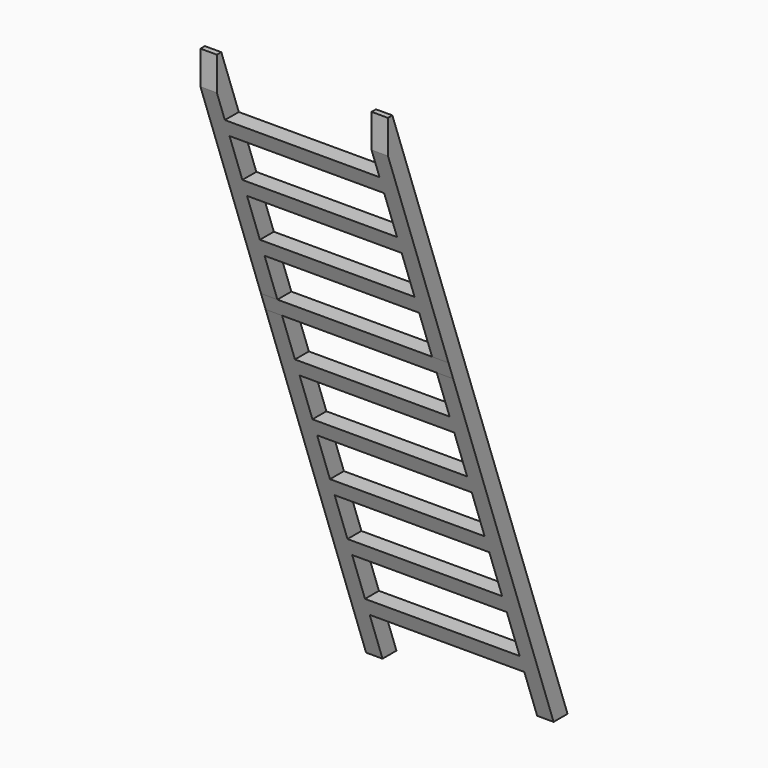
from build123d import *

# Parameters (mm, degrees)
F1_DEPTH = 48
F3_DEPTH = 452


with BuildPart() as f1:
    # F0 (on Right) → F1 (new body)
    with BuildSketch(Plane.YZ):
        Polygon((538.1385763868, 312), (585.0655876551, 180), (636.0086209978, 180), (589.0816097296, 312), align=None)
        Polygon((457.0828296508, 540), (474.1471973847, 492), (525.0902307274, 492), (508.0258629935, 540), align=None)
        Polygon((265.1086926442, 1080), (282.1730603782, 1032), (333.1160937209, 1032), (316.051725987, 1080), align=None)
        Polygon((90.1989233716, 1572), (137.1259346399, 1440), (188.0689679826, 1440), (141.1419567144, 1572), align=None)
        Polygon((346.1644393803, 852), (393.0914506486, 720), (444.0344839913, 720), (397.1074727231, 852), align=None)
        Polygon((73.1345556377, 1620), (90.1989233716, 1572), (141.1419567144, 1572), (124.0775889805, 1620), align=None)
        Polygon((474.1471973847, 492), (521.0742086529, 360), (572.0172419957, 360), (525.0902307274, 492), align=None)
        Polygon((410.1558183825, 672), (457.0828296508, 540), (508.0258629935, 540), (461.0988517252, 672), align=None)
        Polygon((282.1730603782, 1032), (329.1000716464, 900), (380.0431049891, 900), (333.1160937209, 1032), align=None)
        Polygon((43.9829274256, 1702), (73.1345556377, 1620), (124.0775889805, 1620), (60.0862099783, 1800), (43.9829274256, 1800), align=None)
        Polygon((585.0655876551, 180), (602.129955389, 132), (653.0729887317, 132), (636.0086209978, 180), align=None)
        Polygon((393.0914506486, 720), (410.1558183825, 672), (461.0988517252, 672), (444.0344839913, 720), align=None)
        Polygon((602.129955389, 132), (649.0569666573, 0), (700, 0), (653.0729887317, 132), align=None)
        Polygon((201.1173136421, 1260), (218.181681376, 1212), (269.1247147187, 1212), (252.0603469848, 1260), align=None)
        Polygon((218.181681376, 1212), (265.1086926442, 1080), (316.051725987, 1080), (269.1247147187, 1212), align=None)
        Polygon((154.1903023738, 1392), (201.1173136421, 1260), (252.0603469848, 1260), (205.1333357165, 1392), align=None)
        Polygon((329.1000716464, 900), (346.1644393803, 852), (397.1074727231, 852), (380.0431049891, 900), align=None)
        Polygon((521.0742086529, 360), (538.1385763868, 312), (589.0816097296, 312), (572.0172419957, 360), align=None)
        Polygon((137.1259346399, 1440), (154.1903023738, 1392), (205.1333357165, 1392), (188.0689679826, 1440), align=None)
    extrude(amount=F1_DEPTH)


with BuildPart() as f2_1:
    # F2: copy of F1
    add(f1.part.moved(Location((-500, 0, 0))))


with BuildPart() as f1_1:
    add(f1.part)

    add(f2_1.part)  # F3 merges F2_1
    # F0 (on Right) → F3 (join)
    with BuildSketch(Plane.YZ):
        Polygon((585.0655876551, 180), (602.129955389, 132), (653.0729887317, 132), (636.0086209978, 180), align=None)
        Polygon((521.0742086529, 360), (538.1385763868, 312), (589.0816097296, 312), (572.0172419957, 360), align=None)
        Polygon((457.0828296508, 540), (474.1471973847, 492), (525.0902307274, 492), (508.0258629935, 540), align=None)
        Polygon((393.0914506486, 720), (410.1558183825, 672), (461.0988517252, 672), (444.0344839913, 720), align=None)
        Polygon((329.1000716464, 900), (346.1644393803, 852), (397.1074727231, 852), (380.0431049891, 900), align=None)
        Polygon((265.1086926442, 1080), (282.1730603782, 1032), (333.1160937209, 1032), (316.051725987, 1080), align=None)
        Polygon((201.1173136421, 1260), (218.181681376, 1212), (269.1247147187, 1212), (252.0603469848, 1260), align=None)
        Polygon((137.1259346399, 1440), (154.1903023738, 1392), (205.1333357165, 1392), (188.0689679826, 1440), align=None)
        Polygon((73.1345556377, 1620), (90.1989233716, 1572), (141.1419567144, 1572), (124.0775889805, 1620), align=None)
    extrude(amount=-F3_DEPTH)


solid = f1_1.part
